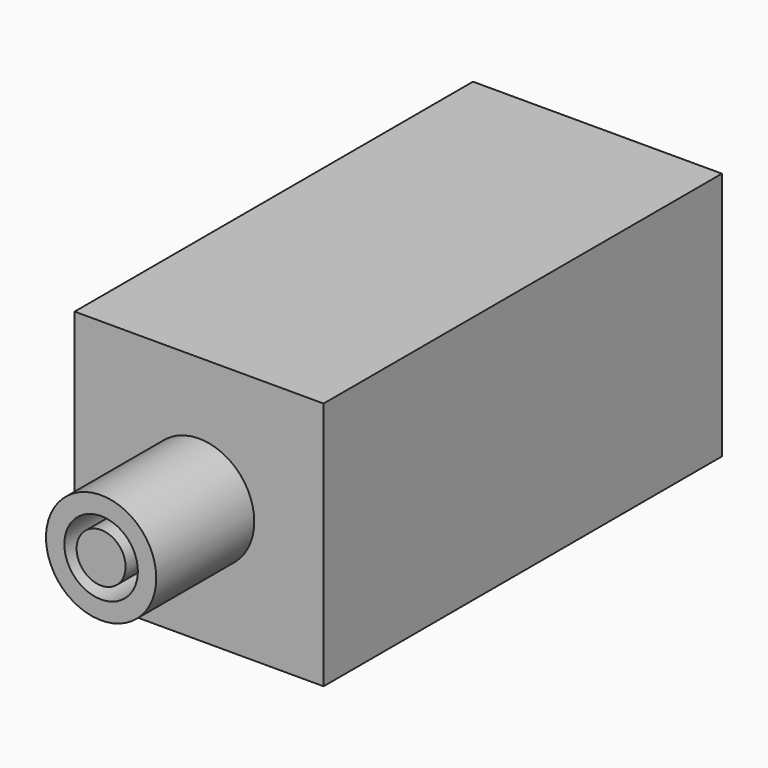
from build123d import *

# Parameters (mm, degrees)
F0_W     = 50.8
F0_H     = 50.8
F1_DEPTH = 101.6
F2_R     = 11.25
F2_R_2   = 7.5
F2_R_3   = 5
F3_DEPTH = 25


with BuildPart() as f1:
    # F0 (on Front) → F1 (new body)
    with BuildSketch(Plane.XZ):
        Rectangle(F0_W, F0_H)
    extrude(amount=F1_DEPTH)

    # F2 (on face) → F3 (join)
    with BuildSketch(Plane.XZ.offset(101.6)):
        with Locations((0, -0.4)):
            Circle(F2_R)
        with Locations((0, -0.4)):
            Circle(F2_R_2, mode=Mode.SUBTRACT)
        with Locations((0, -0.4)):
            Circle(F2_R_3)
    extrude(amount=F3_DEPTH)


solid = f1.part
